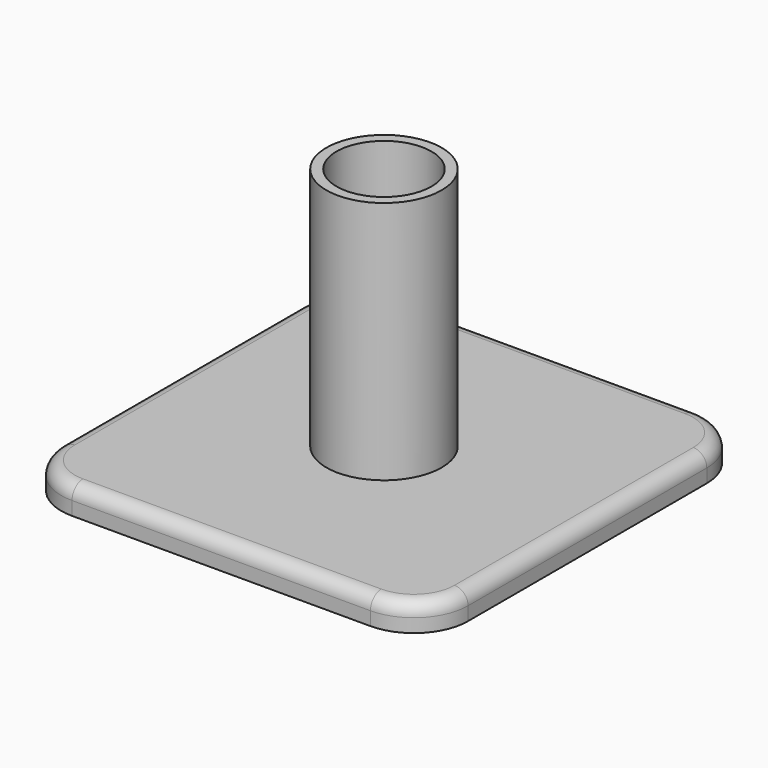
from build123d import *

# Parameters (mm, degrees)
CYLINDER001_R     = 7
CYLINDER001_DEPTH = 50
CYLINDER_R        = 8.5
CYLINDER_DEPTH    = 40
BOX_W             = 60
BOX_H             = 60
BOX_DEPTH         = 4
FILLET_R          = 8
FILLET001_R       = 2


with BuildPart() as cylinder001:
    # Cylinder001 → Cylinder001 (new body)
    with BuildSketch(Plane.XY):
        Circle(CYLINDER001_R)
    extrude(amount=CYLINDER001_DEPTH)


with BuildPart() as cylinder:
    # Cylinder → Cylinder (new body)
    with BuildSketch(Plane.XY):
        Circle(CYLINDER_R)
    extrude(amount=CYLINDER_DEPTH)


with BuildPart() as cut:
    # Box → Box (new body)
    with BuildSketch(Plane(origin=(-30, -30, 0), x_dir=(1, 0, 0), z_dir=(0, 0, 1))):
        with Locations((30, 30)):
            Rectangle(BOX_W, BOX_H)
    extrude(amount=BOX_DEPTH)

    # Fillet
    fillet_edges = [cut.edges().sort_by_distance(p)[0] for p in [
        (-30, -30, 2),
        (-30, 30, 2),
        (30, -30, 2),
        (30, 30, 2),
    ]]
    fillet(fillet_edges, radius=FILLET_R)

    # Fillet001
    fillet001_edges = [cut.edges().sort_by_distance(p)[0] for p in [
        (-30, 0, 4),
        (-27.656854, -27.656854, 4),
        (-27.656854, 27.656854, 4),
        (0, -30, 4),
        (0, 30, 4),
        (27.656854, -27.656854, 4),
        (27.656854, 27.656854, 4),
        (30, 0, 4),
    ]]
    fillet(fillet001_edges, radius=FILLET001_R)

    # Fusion: union Cylinder
    add(cylinder.part)

    # Cut: cut Cylinder001
    add(cylinder001.part, mode=Mode.SUBTRACT)


solid = cut.part
